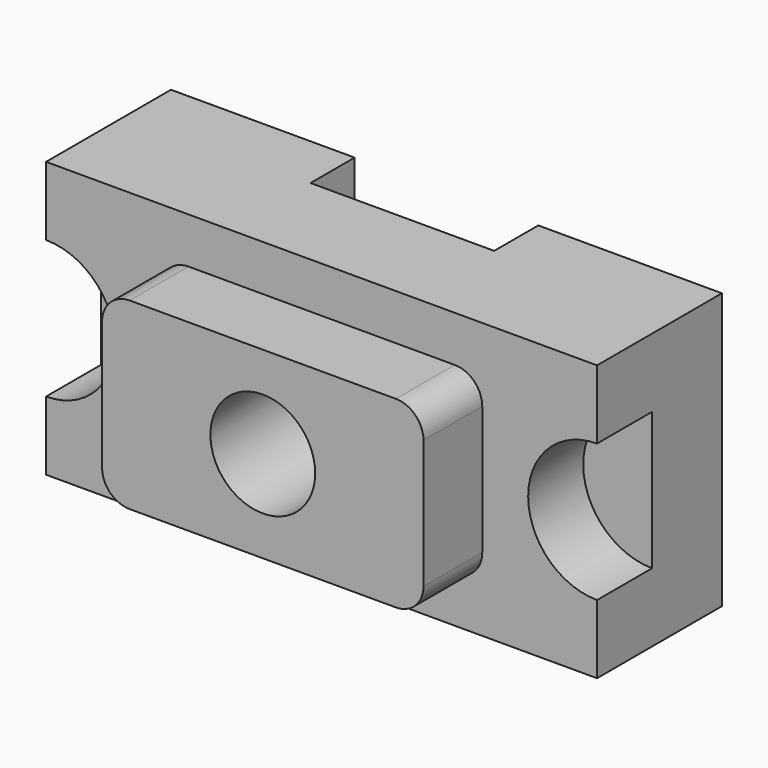
from build123d import *

# Parameters (mm, degrees)
F0_W     = 1200
F0_H     = 600
F1_DEPTH = 340
F2_R     = 150
F3_DEPTH = 150
F4_W     = 400
F4_H     = 240
F5_DEPTH = 600.001
F7_DEPTH = 160
F8_R     = 114.084832
F9_DEPTH = 500.001


with BuildPart() as f1:
    # F0 (on Front) → F1 (new body)
    with BuildSketch(Plane.XZ):
        Rectangle(F0_W, F0_H)
        Rectangle(F0_W, F0_H)
    extrude(amount=F1_DEPTH)

    # F2 (on face) → F3 (cut)
    with BuildSketch(Plane.XZ.offset(340)):
        with Locations((-600, 0)):
            Circle(F2_R)
        with Locations((600, 0)):
            Circle(F2_R)
    extrude(amount=-F3_DEPTH, mode=Mode.SUBTRACT)

    # F4 (on face) → F5 (cut, through all)
    with BuildSketch(Plane(origin=(0, 0, -300), x_dir=(1, 0, 0), z_dir=(0, 0, -1))):
        Rectangle(F4_W, F4_H)
    extrude(amount=-F5_DEPTH, mode=Mode.SUBTRACT)

    # F6 (on face) → F7 (join)
    with BuildSketch(Plane.XZ.offset(340)):
        with BuildLine():
            Line((290, 200), (-290, 200))
            ThreePointArc((-290, 200), (-332.426407, 182.426407), (-350, 140))
            Line((-350, 140), (-350, -140))
            ThreePointArc((-350, -140), (-332.426407, -182.426407), (-290, -200))
            Line((-290, -200), (290, -200))
            ThreePointArc((290, -200), (332.426407, -182.426407), (350, -140))
            Line((350, -140), (350, 140))
            ThreePointArc((350, 140), (332.426407, 182.426407), (290, 200))
        make_face()
        with BuildLine():
            Line((290, 200), (-290, 200))
            ThreePointArc((-290, 200), (-332.426407, 182.426407), (-350, 140))
            Line((-350, 140), (-350, -140))
            ThreePointArc((-350, -140), (-332.426407, -182.426407), (-290, -200))
            Line((-290, -200), (290, -200))
            ThreePointArc((290, -200), (332.426407, -182.426407), (350, -140))
            Line((350, -140), (350, 140))
            ThreePointArc((350, 140), (332.426407, 182.426407), (290, 200))
        make_face()
    extrude(amount=F7_DEPTH)

    # F8 (on face) → F9 (cut, through all)
    with BuildSketch(Plane.XZ.offset(500)):
        Circle(F8_R)
    extrude(amount=-F9_DEPTH, mode=Mode.SUBTRACT)


solid = f1.part
